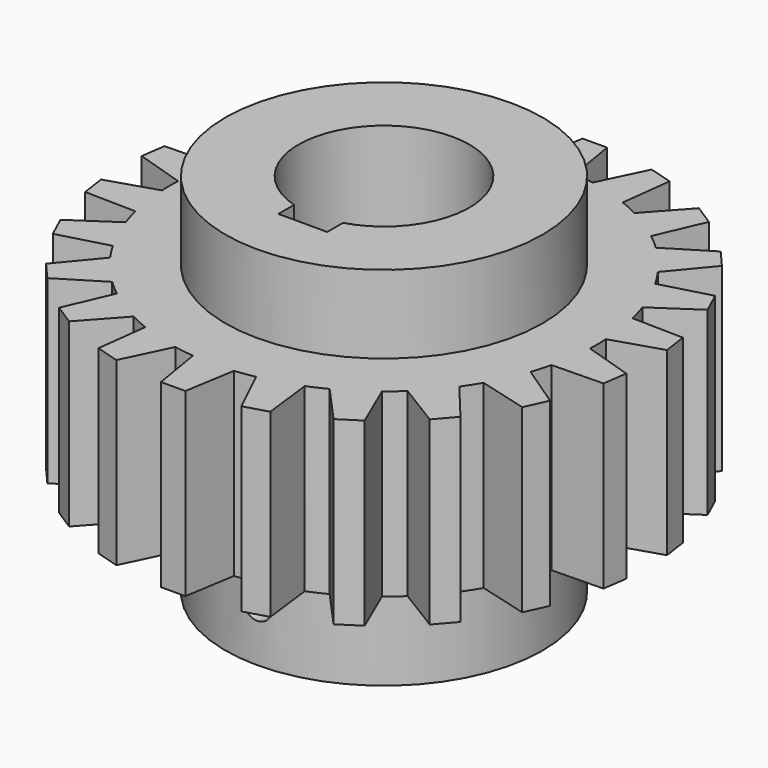
from build123d import *

# Parameters (mm, degrees)
F0_R      = 43.875
F1_DEPTH  = 37
F3_DEPTH  = 37
F5_COUNT  = 22
F6_R      = 32.5
F7_DEPTH  = 22
F9_DEPTH  = 59.001
F10_R     = 3
F11_DEPTH = 33.201
F12_R     = 32.5
F13_DEPTH = 16


with BuildPart() as f1:
    # F0 (on Top) → F1 (new body)
    with BuildSketch(Plane.XY):
        Circle(F0_R)
    extrude(amount=F1_DEPTH)

    # F2 (on face) → F3 (join, through all)
    with BuildSketch(Plane.XY.offset(37)):
        with BuildLine():
            ThreePointArc((-4.2052323918, 43.6730082034), (0, 43.875), (4.2052323918, 43.6730082034))
            Line((4.2052323918, 43.6730082034), (2.5, 54))
            Line((2.5, 54), (-2.5, 54))
            Line((-2.5, 54), (-4.2052323918, 43.6730082034))
        make_face()
        with BuildLine():
            ThreePointArc((-4.2052323918, 43.6730082034), (-29.5000936762, -32.4770703435), (43.875, 0))
            ThreePointArc((43.875, 0), (32.4770703435, 29.5000936762), (4.2052323918, 43.6730082034))
            ThreePointArc((4.2052323918, 43.6730082034), (0, 43.875), (-4.2052323918, 43.6730082034))
        make_face()
    extrude(amount=-F3_DEPTH)

    # F5: F1 ×22 about axis
    f5_axis = Axis((0, 0, 35), (0, 0, 1))


with BuildPart() as f1_1:
    add(f1.part)
    for i in range(1, F5_COUNT):
        add(f1.part.rotate(f5_axis, i * 360 / F5_COUNT))

    # F6 (on face) → F7 (join)
    with BuildSketch(Plane(origin=(0, 0, 0), x_dir=(1, 0, 0), z_dir=(0, 0, -1))):
        Circle(F6_R)
    extrude(amount=F7_DEPTH)

    # F8 (on face) → F9 (cut, through all)
    with BuildSketch(Plane(origin=(0, 0, -22), x_dir=(1, 0, 0), z_dir=(0, 0, -1))):
        with BuildLine():
            Line((5, 0), (5, 16.7705098312))
            ThreePointArc((5, 16.7705098312), (0, 17.5), (-5, 16.7705098312))
            Line((-5, 16.7705098312), (-5, 0))
            Line((-5, 0), (5, 0))
        make_face()
        with BuildLine():
            ThreePointArc((-5, 16.7705098312), (0, 17.5), (5, 16.7705098312))
            Line((5, 16.7705098312), (5, 20.8))
            Line((5, 20.8), (-5, 20.8))
            Line((-5, 20.8), (-5, 16.7705098312))
        make_face()
        with BuildLine():
            ThreePointArc((-5, 16.7705098312), (-10.4582503317, -14.0312152004), (17.5, 0))
            ThreePointArc((17.5, 0), (14.0312152004, 10.4582503317), (5, 16.7705098312))
            Line((5, 16.7705098312), (5, 0))
            Line((5, 0), (-5, 0))
            Line((-5, 0), (-5, 16.7705098312))
        make_face()
    extrude(amount=-F9_DEPTH, mode=Mode.SUBTRACT)

    # F10 (on face) → F11 (cut, through all)
    with BuildSketch(Plane(origin=(0, -20.8, 0), x_dir=(-1, 0, 0), z_dir=(0, 1, 0))):
        with Locations((0, -11)):
            Circle(F10_R)
    extrude(amount=-F11_DEPTH, mode=Mode.SUBTRACT)

    # F12 (on face) → F13 (join)
    with BuildSketch(Plane.XY.offset(37)):
        Circle(F12_R)
        with BuildLine():
            ThreePointArc((-5, -16.7705098312), (0, 17.5), (5, -16.7705098312))
            Line((5, -16.7705098312), (5, -20.8))
            Line((5, -20.8), (-5, -20.8))
            Line((-5, -20.8), (-5, -16.7705098312))
        make_face(mode=Mode.SUBTRACT)
    extrude(amount=F13_DEPTH)


solid = f1_1.part
